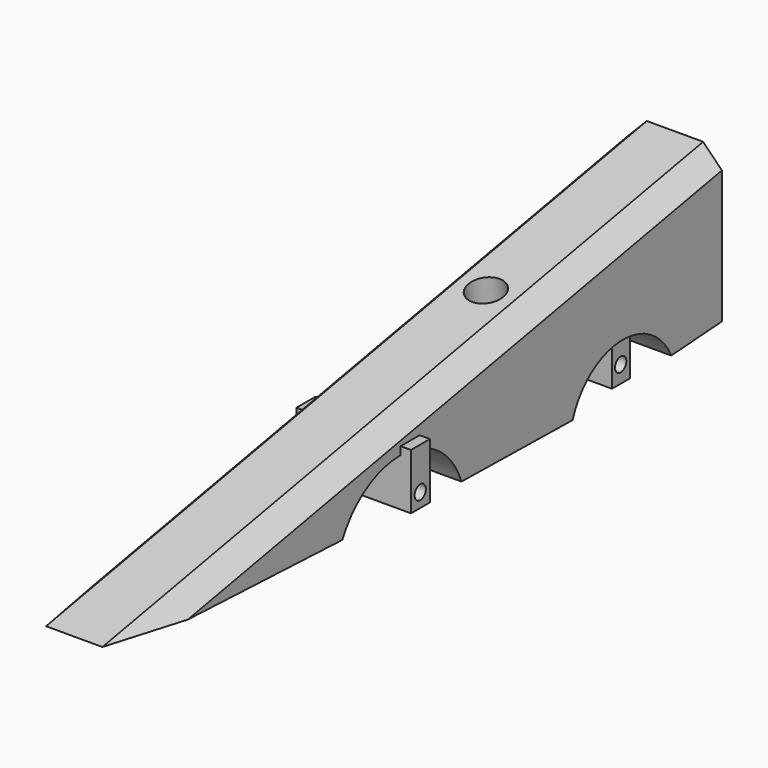
from build123d import *

# Parameters (mm, degrees)
F1_DEPTH       = 12.7
F1_DEPTH_BACK  = 12.7
F2_SIZE        = 5.08
F3_R           = 10.16
F4_DEPTH       = 29.21
F5_R           = 4.7169653767
F6_DEPTH       = 14.478
F7_W           = 6.4129335806
F7_H           = 15.100935474
F8_DEPTH       = 15.494
F8_DEPTH_BACK  = 15.494
F9_R           = 1.905
F10_DEPTH      = 39.878
F11_W          = 6.0101076961
F11_H          = 16.6161805391
F12_DEPTH      = 12.192
F12_DEPTH_BACK = 12.192
F13_R          = 1.9082928371
F14_DEPTH      = 25.4


with BuildPart() as f1:
    # F0 (on Right) → F1 (new body, two sides)
    with BuildSketch(Plane.YZ) as f1_sk:
        with BuildLine():
            Line((102.2577819586, 13.1989740504), (-100.9422180414, -24.5563495133))
            Line((-100.9422180414, -24.5563495133), (-26.1237075026, -27.7993018095))
            ThreePointArc((-26.1237075026, -27.7993018095), (-5.1643274907, -15.6669524817), (14.1464179811, -30.2814870284))
            Line((14.1464179811, -30.2814870284), (51.7638866865, -30.9321125706))
            ThreePointArc((51.7638866865, -30.9321125706), (67.8129634232, -18.702842322), (85.1018259738, -29.1058777742))
            Line((85.1018259738, -29.1058777742), (102.2577819586, -27.9500877853))
            Line((102.2577819586, -27.9500877853), (102.2577819586, 13.1989740504))
        make_face()
    extrude(amount=F1_DEPTH)
    extrude(f1_sk.sketch, amount=-F1_DEPTH_BACK)

    # F2
    f2_edges = [f1.edges().sort_by_distance(p)[0] for p in [
        (12.7, 0.657782, -5.678688),
        (-12.7, 0.657782, -5.678688),
    ]]
    chamfer(f2_edges, length=F2_SIZE)

    # F3 (on face) → F4 (cut)
    with BuildSketch(Plane(origin=(0, 102.2577819586, 0), x_dir=(-1, 0, 0), z_dir=(0, 1, 0))):
        with Locations((0, -10.2422883113)):
            Circle(F3_R)
    extrude(amount=-F4_DEPTH, mode=Mode.SUBTRACT)

    # F5 (on face) → F6 (cut)
    with BuildSketch(Plane(origin=(0, 1.041861913, -5.6073242327), x_dir=(1, 0, 0), z_dir=(0, -0.1826772268, 0.9831729404))):
        with Locations((0, 37.893474102)):
            Circle(F5_R)
    extrude(amount=-F6_DEPTH, mode=Mode.SUBTRACT)

    # F7 (on Right) → F8 (join, two sides)
    with BuildSketch(Plane.YZ) as f8_sk:
        with Locations((-3.2064667903, -21.0316376761)):
            Rectangle(F7_W, F7_H)
    extrude(amount=F8_DEPTH)
    extrude(f8_sk.sketch, amount=-F8_DEPTH_BACK)

    # F9 (on face) → F10 (cut)
    with BuildSketch(Plane.YZ.offset(15.494)):
        with Locations((-3.2832995057, -24.805707857)):
            Circle(F9_R)
    extrude(amount=-F10_DEPTH, mode=Mode.SUBTRACT)

    # F11 (on Right) → F12 (join, two sides)
    with BuildSketch(Plane.YZ) as f12_sk:
        with Locations((68.7134154141, -20.981086418)):
            Rectangle(F11_W, F11_H)
    extrude(amount=F12_DEPTH)
    extrude(f12_sk.sketch, amount=-F12_DEPTH_BACK)

    # F13 (on face) → F14 (cut)
    with BuildSketch(Plane(origin=(-12.192, 0, 0), x_dir=(0, -1, 0), z_dir=(-1, 0, 0))):
        with Locations((-68.646594882, -24.6950872242)):
            Circle(F13_R)
    extrude(amount=-F14_DEPTH, mode=Mode.SUBTRACT)


solid = f1.part
